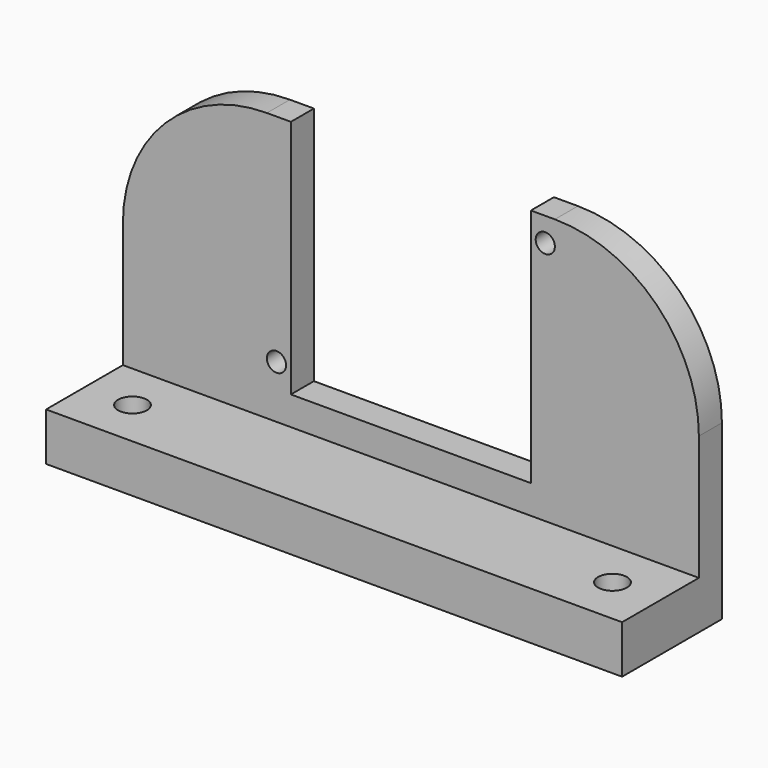
from build123d import *

# Parameters (mm, degrees)
F0_W     = 60
F0_H     = 13
F1_DEPTH = 5
F3_D     = 3
F4_W     = 60
F4_H     = 3
F5_DEPTH = 28
F6_W     = 25
F6_H     = 25
F7_DEPTH = 5
F9_D     = 2
F10_R    = 15


with BuildPart() as f1:
    # F0 (on Top) → F1 (new body)
    with BuildSketch(Plane.XY):
        with Locations((30, 6.5)):
            Rectangle(F0_W, F0_H)
    extrude(amount=F1_DEPTH)

    # F3 (through all)
    with Locations(Plane.XY.offset(5)):
        with Locations((5, 5), (55, 5)):
            Hole(F3_D / 2)

    # F4 (on face) → F5 (join)
    with BuildSketch(Plane.XY.offset(5)):
        with Locations((30, 11.5)):
            Rectangle(F4_W, F4_H)
    extrude(amount=F5_DEPTH)

    # F6 (on face) → F7 (cut)
    with BuildSketch(Plane(origin=(0, 13, 0), x_dir=(-1, 0, 0), z_dir=(0, 1, 0))):
        with Locations((-30, 20.5)):
            Rectangle(F6_W, F6_H)
    extrude(amount=-F7_DEPTH, mode=Mode.SUBTRACT)

    # F9 (through all)
    with Locations(Plane(origin=(0, 13, 0), x_dir=(-1, 0, 0), z_dir=(0, 1, 0))):
        with Locations((-44, 30.5), (-16, 10.5)):
            Hole(F9_D / 2)

    # F10
    f10_edges = [f1.edges().sort_by_distance(p)[0] for p in [
        (0, 11.5, 33),
        (60, 11.5, 33),
    ]]
    fillet(f10_edges, radius=F10_R)


solid = f1.part
